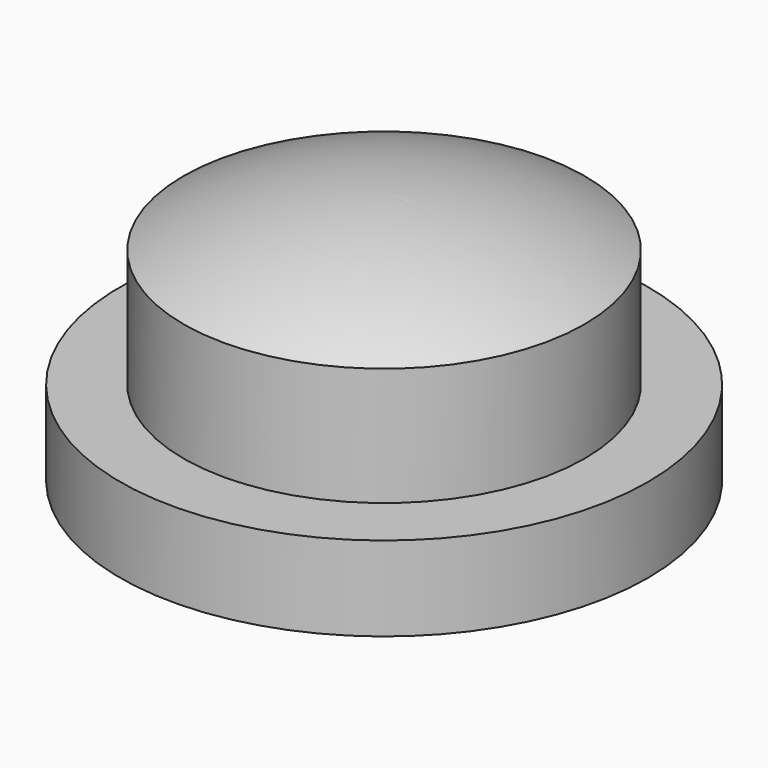
from build123d import *


with BuildPart() as part:
    # Sketch → Revolution (revolve)
    with BuildSketch(Plane.XZ):
        with BuildLine():
            Line((0, 0), (6.25, 0))
            Line((6.25, 0), (6.25, 2))
            Line((6.25, 2), (4.75, 2))
            Line((4.75, 2), (4.75, 4.799858))
            ThreePointArc((4.75, 4.799858), (2.449635, 5.695323), (0, 6))
            Line((0, 0), (0, 6))
        make_face()
    revolve(axis=Axis((0, 0, 0), (0, 0, 1)))


solid = part.part
